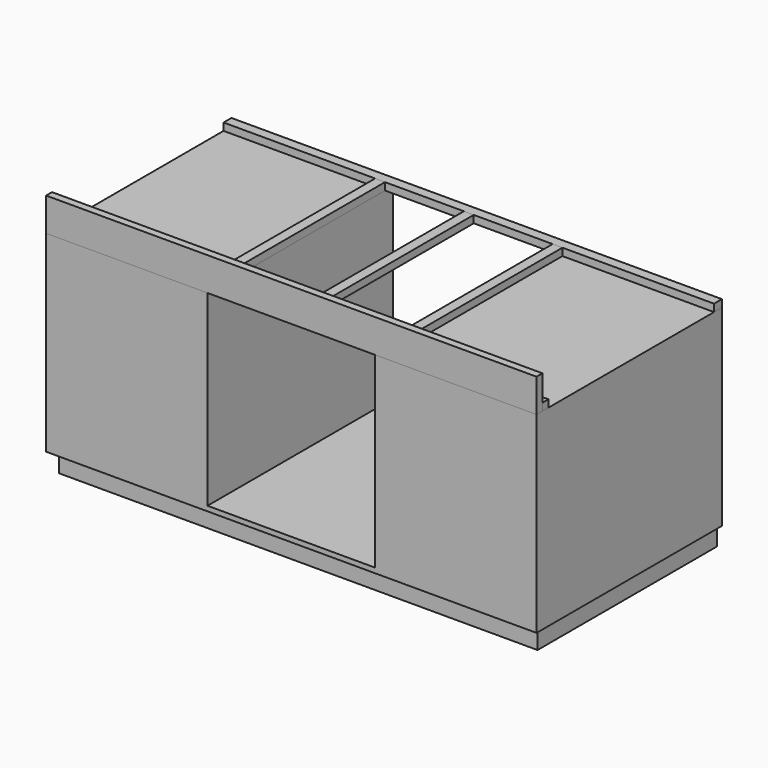
from build123d import *

# Parameters (mm, degrees)
F0_W     = 680
F0_H     = 20
F1_DEPTH = 940
F2_DEPTH = 30
F3_W     = 30
F3_H     = 30
F3_W_2   = 40
F4_DEPTH = 1990
F5_W     = 40
F5_H     = 30
F6_DEPTH = 840
F7_W     = 1942
F7_H     = 910
F8_DEPTH = 80


with BuildPart() as f1:
    # F0 (on Front) → F1 (new body)
    with BuildSketch(Plane.XZ):
        Polygon((-655, 0), (0, 0), (0, 780), (-655, 780), (-655, 20), align=None)
        Polygon((-1990, 0), (-1335, 0), (-1335, 20), (-1335, 780), (-1990, 780), align=None)
        with Locations((-995, 10)):
            Rectangle(F0_W, F0_H)
    extrude(amount=-F1_DEPTH)


with BuildPart() as f2:
    # F0 (on Front) → F2 (new body)
    with BuildSketch(Plane.XZ):
        Polygon((-655, 780), (0, 780), (0, 915), (-1990, 915), (-1990, 780), (-1335, 780), align=None)
    extrude(amount=-F2_DEPTH)


with BuildPart() as f4:
    # F3 (on face) → F4 (new body, through all)
    with BuildSketch(Plane.YZ):
        with Locations((45, 795)):
            Rectangle(F3_W, F3_H)
        with Locations((920, 795)):
            Rectangle(F3_W_2, F3_H)
    extrude(amount=-F4_DEPTH)


with BuildPart() as f6:
    # F5 (on face) → F6 (new body, through all)
    with BuildSketch(Plane(origin=(0, 60, 0), x_dir=(-1, 0, 0), z_dir=(0, 1, 0))):
        with Locations((635, 795)):
            Rectangle(F5_W, F5_H)
        with Locations((995, 795)):
            Rectangle(F5_W, F5_H)
        with Locations((1355, 795)):
            Rectangle(F5_W, F5_H)
    extrude(amount=F6_DEPTH)


with BuildPart() as f8:
    # F7 (on face) → F8 (new body)
    with BuildSketch(Plane(origin=(0, 0, 0), x_dir=(1, 0, 0), z_dir=(0, 0, -1))):
        with Locations((-991, -485)):
            Rectangle(F7_W, F7_H)
    extrude(amount=F8_DEPTH)


solid = Compound([f1.part, f2.part, f4.part, f6.part, f8.part])
